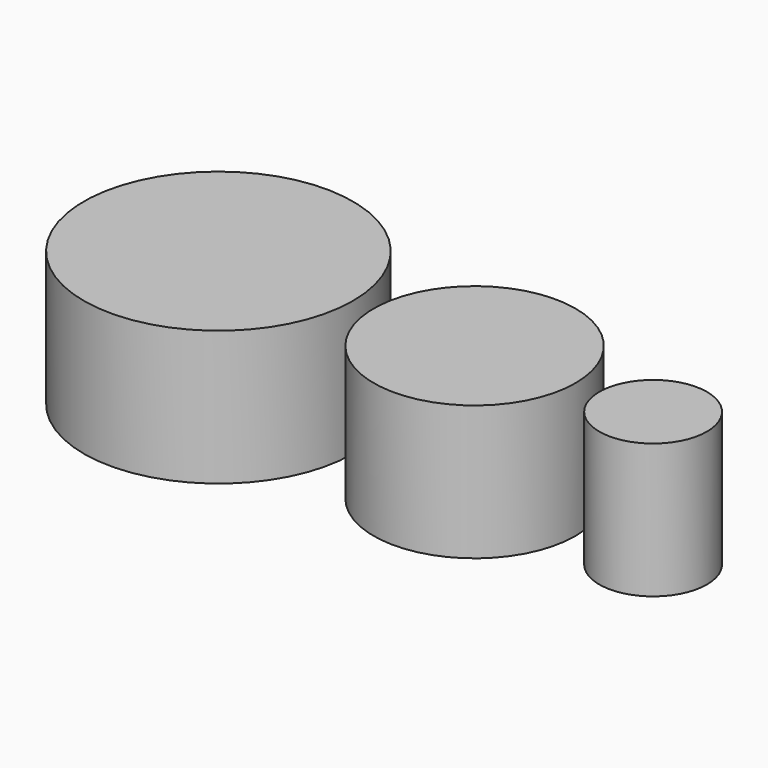
from build123d import *

# Parameters (mm, degrees)
F0_R     = 1000
F0_R_2   = 750
F0_R_3   = 400
F1_DEPTH = 1000


with BuildPart() as f1:
    # F0 (on Top) → F1 (new body)
    with BuildSketch(Plane.XY):
        with Locations((-1903.629541, 0)):
            Circle(F0_R)
        Circle(F0_R_2)
        with Locations((1326.192141, 0)):
            Circle(F0_R_3)
    extrude(amount=F1_DEPTH)


solid = f1.part
